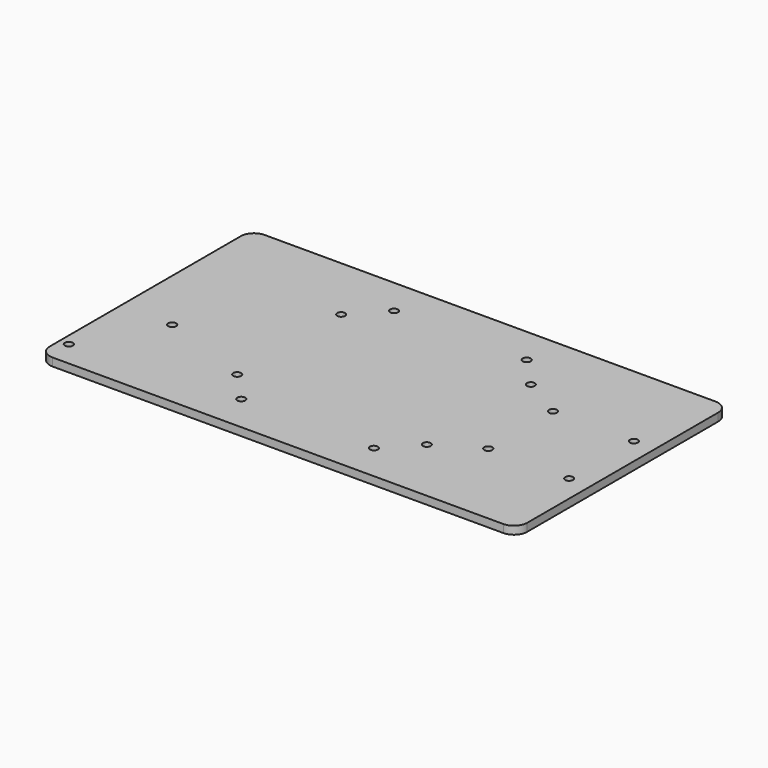
from build123d import *

# Parameters (mm, degrees)
F0_R     = 1.5
F1_DEPTH = 3


with BuildPart() as f1:
    # F0 (on Top) → F1 (new body)
    with BuildSketch(Plane.XY):
        with BuildLine():
            Line((-85, -50), (85, -50))
            ThreePointArc((85, -50), (88.535534, -48.535534), (90, -45))
            Line((90, -45), (90, 45))
            ThreePointArc((90, 45), (88.535534, 48.535534), (85, 50))
            Line((85, 50), (-85, 50))
            ThreePointArc((-85, 50), (-88.535534, 48.535534), (-90, 45))
            Line((-90, 45), (-90, -45))
            ThreePointArc((-90, -45), (-88.535534, -48.535534), (-85, -50))
        make_face()
        with Locations((-86.5, -40.4)):
            Circle(F0_R, mode=Mode.SUBTRACT)
        with Locations((-25, -36)):
            Circle(F0_R, mode=Mode.SUBTRACT)
        with Locations((-70.5, -11.7)):
            Circle(F0_R, mode=Mode.SUBTRACT)
        with Locations((-35.75, -24.5)):
            Circle(F0_R, mode=Mode.SUBTRACT)
        with Locations((25, -36)):
            Circle(F0_R, mode=Mode.SUBTRACT)
        with Locations((35.75, -24.5)):
            Circle(F0_R, mode=Mode.SUBTRACT)
        with Locations((51.5, -15.25)):
            Circle(F0_R, mode=Mode.SUBTRACT)
        with Locations((82, -15.25)):
            Circle(F0_R, mode=Mode.SUBTRACT)
        with Locations((-35.75, 24.5)):
            Circle(F0_R, mode=Mode.SUBTRACT)
        with Locations((-25, 36)):
            Circle(F0_R, mode=Mode.SUBTRACT)
        with Locations((35.75, 24.5)):
            Circle(F0_R, mode=Mode.SUBTRACT)
        with Locations((51.5, 15.25)):
            Circle(F0_R, mode=Mode.SUBTRACT)
        with Locations((82, 15.25)):
            Circle(F0_R, mode=Mode.SUBTRACT)
        with Locations((25, 36)):
            Circle(F0_R, mode=Mode.SUBTRACT)
    extrude(amount=F1_DEPTH)


solid = f1.part
